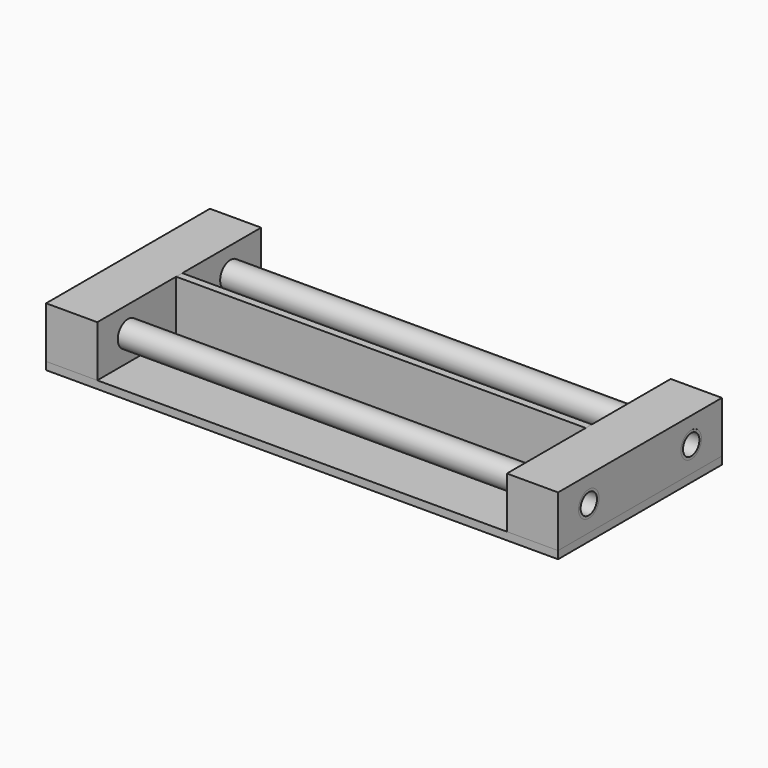
from build123d import *

# Parameters (mm, degrees)
F0_W      = 200
F0_H      = 80
F1_DEPTH  = 3.0000000261
F2_W      = 20
F2_H      = 80
F3_DEPTH  = 20
F4_R      = 5
F5_DEPTH  = 25
F7_W      = 160
F7_H      = 20
F8_DEPTH  = 1.5
F9_R      = 5
F9_R_2    = 4
F10_DEPTH = 200


with BuildPart() as f1:
    # F0 (on Top) → F1 (new body)
    with BuildSketch(Plane.XY):
        Rectangle(F0_W, F0_H)
    extrude(amount=-F1_DEPTH)


with BuildPart() as f3:
    # F2 (on face) → F3 (new body)
    with BuildSketch(Plane.XY):
        with Locations((90, 0)):
            Rectangle(F2_W, F2_H)
    extrude(amount=F3_DEPTH)

    # F4 (on face) → F5 (cut)
    with BuildSketch(Plane.YZ.offset(100)):
        with Locations((-25, 10)):
            Circle(F4_R)
        with Locations((25, 10)):
            Circle(F4_R)
    extrude(amount=-F5_DEPTH, mode=Mode.SUBTRACT)


with BuildPart() as f6_1:
    # F6: instance of F3
    add(f3.part.mirror(Plane.YZ))


with BuildPart() as f8:
    # F7 (on Front) → F8 (new body, symmetric)
    with BuildSketch(Plane.XZ):
        with Locations((0, 10)):
            Rectangle(F7_W, F7_H)
    extrude(amount=F8_DEPTH, both=True)


with BuildPart() as f10:
    # F9 (on face) → F10 (new body, through all)
    with BuildSketch(Plane.YZ.offset(100)):
        with Locations((-25, 10)):
            Circle(F9_R)
        with Locations((-25, 10)):
            Circle(F9_R_2, mode=Mode.SUBTRACT)
    extrude(amount=-F10_DEPTH)


with BuildPart() as f11_1:
    # F11: instance of F10
    add(f10.part.mirror(Plane.XZ))


solid = Compound([f1.part, f3.part, f6_1.part, f8.part, f10.part, f11_1.part])
